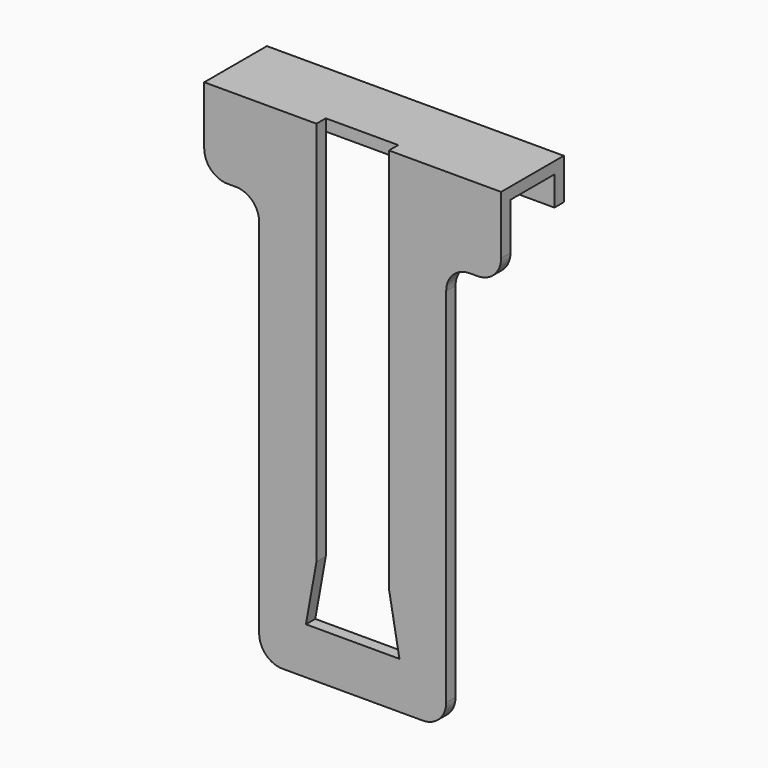
from build123d import *

# Parameters (mm, degrees)
F1_DEPTH = 12.7
F2_W     = 4.7
F2_H     = 35
F3_DEPTH = 1
F4_R     = 2


with BuildPart() as f1:
    # F0 (on Right) → F1 (new body, symmetric)
    with BuildSketch(Plane.YZ):
        Polygon((6.7, 0), (0, 0), (0, -42), (1, -42), (1, -1), (5.7, -1), (5.7, -3.5), (6.7, -3.5), align=None)
    extrude(amount=F1_DEPTH, both=True)

    # F2 (on face) → F3 (cut, through all)
    with BuildSketch(Plane.XZ):
        Polygon((3.1, 0), (-3.1, 0), (-3.1, -33), (-4, -38), (4, -38), (3.1, -33), align=None)
        with Locations((-10.35, -24.5)):
            Rectangle(F2_W, F2_H)
        with Locations((10.35, -24.5)):
            Rectangle(F2_W, F2_H)
    extrude(amount=-F3_DEPTH, mode=Mode.SUBTRACT)

    # F4
    f4_edges = [f1.edges().sort_by_distance(p)[0] for p in [
        (8, 0.5, -42),
        (-8, 0.5, -42),
        (-8, 0.5, -7),
        (-12.7, 0.5, -7),
        (8, 0.5, -7),
        (12.7, 0.5, -7),
    ]]
    fillet(f4_edges, radius=F4_R)


solid = f1.part
